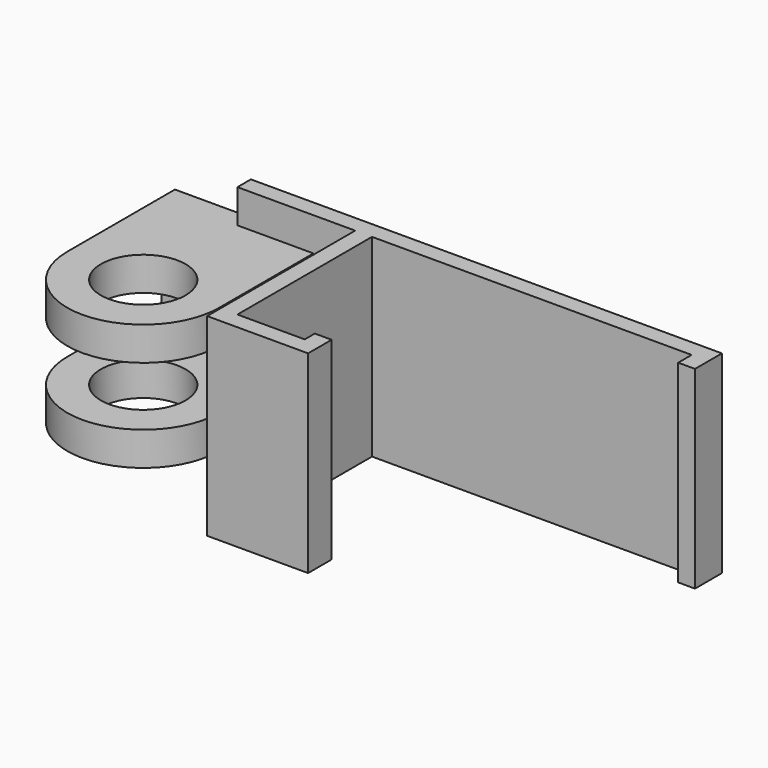
from build123d import *

# Parameters (mm, degrees)
SKETCH004_R       = 5.031
PAD005_DEPTH      = 15
SKETCH007_W       = 23.03
SKETCH007_H       = 7
POCKET_DEPTH      = 9.031
POCKET_DEPTH_BACK = 9.031
SKETCH008_W       = 20
SKETCH008_H       = 23
PAD006_DEPTH      = 2
PAD012_DEPTH      = 4
PAD013_DEPTH      = 19


with BuildPart() as part:
    # Sketch004 → Pad005 (new body)
    with BuildSketch(Plane.XY):
        with BuildLine():
            ThreePointArc((-9.03, 0), (0, -9.03), (9.03, 0))
            Line((9.03, 0), (9.03, 16))
            Line((9.03, 16), (-9.03, 16))
            Line((-9.03, 16), (-9.03, 0))
        make_face()
        Circle(SKETCH004_R, mode=Mode.SUBTRACT)
    extrude(amount=PAD005_DEPTH)

    # Sketch007 → Pocket (cut, two sides)
    with BuildSketch(Plane.YZ) as pocket_sk:
        with Locations((2.485, 7.5)):
            Rectangle(SKETCH007_W, SKETCH007_H)
    extrude(amount=-POCKET_DEPTH, mode=Mode.SUBTRACT)
    extrude(pocket_sk.sketch, amount=POCKET_DEPTH_BACK, mode=Mode.SUBTRACT)

    # Sketch008 → Pad006 (join)
    with BuildSketch(Plane.XZ.offset(-16)):
        with Locations((10, 7.5)):
            Rectangle(SKETCH008_W, SKETCH008_H)
    extrude(amount=PAD006_DEPTH)

    # Sketch018 → Pad012 (join)
    with BuildSketch(Plane.XY):
        Polygon((14, 16.280637), (14, -8), (26, -8), (26, -4.5), (24, -4.5), (24, -6), (16, -6), (16, 14), (54, 14), (54, 12), (56, 12), (56, 14), (56, 16), (14, 16), align=None)
    extrude(amount=-PAD012_DEPTH)

    # Sketch018 → Pad013 (join)
    with BuildSketch(Plane.XY):
        Polygon((14, 16.280637), (14, -8), (26, -8), (26, -4.5), (24, -4.5), (24, -6), (16, -6), (16, 14), (54, 14), (54, 12), (56, 12), (56, 14), (56, 16), (14, 16), align=None)
    extrude(amount=PAD013_DEPTH)


solid = part.part
